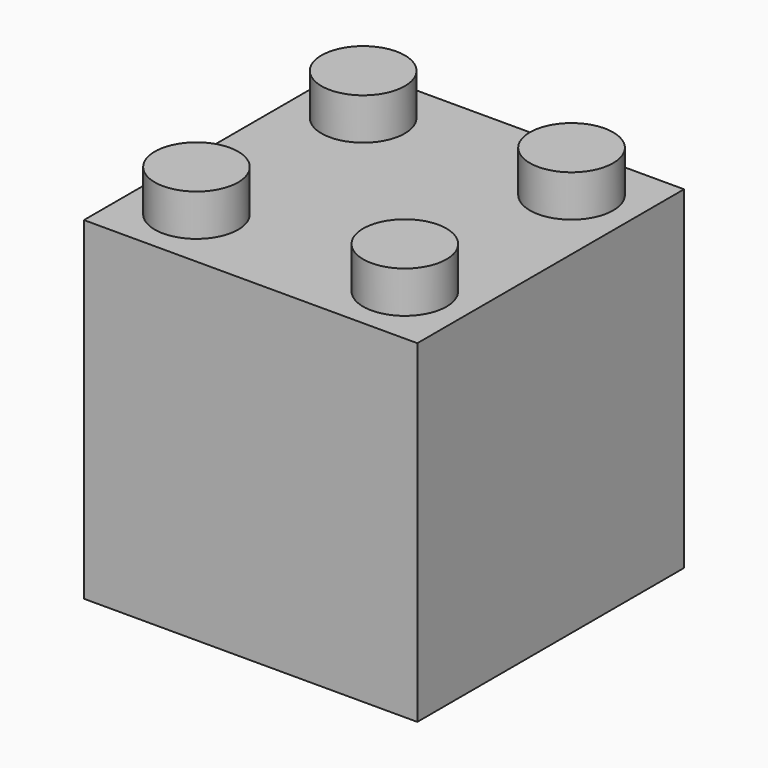
from build123d import *

# Parameters (mm, degrees)
F0_W     = 25.4
F0_H     = 25.4
F0_W_2   = 22.225
F0_H_2   = 22.225
F1_DEPTH = 25.4
F2_DEPTH = 23.8125
F3_R     = 3.175
F4_DEPTH = 3.175


with BuildPart() as f1:
    # F0 (on Top) → F1 (new body)
    with BuildSketch(Plane.XY):
        with Locations((0, 12.7)):
            Rectangle(F0_W, F0_H)
        with Locations((0, 12.7)):
            Rectangle(F0_W_2, F0_H_2, mode=Mode.SUBTRACT)
        with Locations((0, 12.7)):
            Rectangle(F0_W_2, F0_H_2)
    extrude(amount=F1_DEPTH)

    # F0 (on Top) → F2 (cut)
    with BuildSketch(Plane.XY):
        with Locations((0, 12.7)):
            Rectangle(F0_W_2, F0_H_2)
    extrude(amount=F2_DEPTH, mode=Mode.SUBTRACT)

    # F3 (on face) → F4 (join)
    with BuildSketch(Plane.XY.offset(25.4)):
        with Locations((7.9375, 4.7625)):
            Circle(F3_R)
        with Locations((7.9375, 20.6375)):
            Circle(F3_R)
        with Locations((-7.9375, 20.6375)):
            Circle(F3_R)
        with Locations((-7.9375, 4.7625)):
            Circle(F3_R)
    extrude(amount=F4_DEPTH)


solid = f1.part
